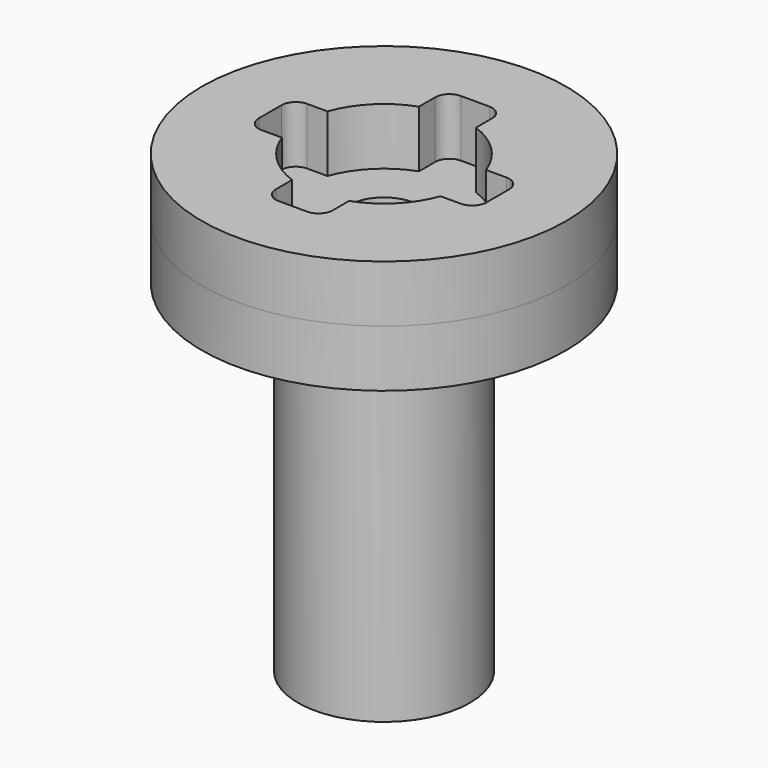
from build123d import *

# Parameters (mm, degrees)
F0_R     = 40.64
F1_DEPTH = 12.7
F0_R_2   = 7.9375
F2_DEPTH = 12.7
F3_R     = 19.177
F3_R_2   = 16.637
F4_DEPTH = 76.2


with BuildPart() as f1:
    # F0 (on Top) → F1 (new body)
    with BuildSketch(Plane.XY):
        Circle(F0_R)
        with BuildLine():
            ThreePointArc((6.35, 17.6908766318), (13.2907790592, 13.2907790592), (17.6908766318, 6.35))
            Line((17.6908766318, 6.35), (22.225, 6.35))
            ThreePointArc((22.225, 6.35), (24.4700640303, 5.4200640303), (25.4, 3.175))
            Line((25.4, 3.175), (25.4, -3.175))
            ThreePointArc((25.4, -3.175), (24.4700640303, -5.4200640303), (22.225, -6.35))
            Line((22.225, -6.35), (17.6908766318, -6.35))
            ThreePointArc((17.6908766318, -6.35), (13.2907790592, -13.2907790592), (6.35, -17.6908766318))
            Line((6.35, -17.6908766318), (6.35, -22.225))
            ThreePointArc((6.35, -22.225), (5.4200640303, -24.4700640303), (3.175, -25.4))
            Line((3.175, -25.4), (-3.175, -25.4))
            ThreePointArc((-3.175, -25.4), (-5.4200640303, -24.4700640303), (-6.35, -22.225))
            Line((-6.35, -22.225), (-6.35, -17.6908766318))
            ThreePointArc((-6.35, -17.6908766318), (-13.2907790592, -13.2907790592), (-17.6908766318, -6.35))
            Line((-17.6908766318, -6.35), (-22.225, -6.35))
            ThreePointArc((-22.225, -6.35), (-24.4700640303, -5.4200640303), (-25.4, -3.175))
            Line((-25.4, -3.175), (-25.4, 3.175))
            ThreePointArc((-25.4, 3.175), (-24.4700640303, 5.4200640303), (-22.225, 6.35))
            Line((-22.225, 6.35), (-17.6908766318, 6.35))
            ThreePointArc((-17.6908766318, 6.35), (-13.2907790592, 13.2907790592), (-6.35, 17.6908766318))
            Line((-6.35, 17.6908766318), (-6.35, 22.225))
            ThreePointArc((-6.35, 22.225), (-5.4200640303, 24.4700640303), (-3.175, 25.4))
            Line((-3.175, 25.4), (3.175, 25.4))
            ThreePointArc((3.175, 25.4), (5.4200640303, 24.4700640303), (6.35, 22.225))
            Line((6.35, 22.225), (6.35, 17.6908766318))
        make_face(mode=Mode.SUBTRACT)
    extrude(amount=F1_DEPTH)


with BuildPart() as f2:
    # F0 (on Top) → F2 (new body)
    with BuildSketch(Plane.XY):
        Circle(F0_R)
        with BuildLine():
            ThreePointArc((6.35, 17.6908766318), (13.2907790592, 13.2907790592), (17.6908766318, 6.35))
            Line((17.6908766318, 6.35), (22.225, 6.35))
            ThreePointArc((22.225, 6.35), (24.4700640303, 5.4200640303), (25.4, 3.175))
            Line((25.4, 3.175), (25.4, -3.175))
            ThreePointArc((25.4, -3.175), (24.4700640303, -5.4200640303), (22.225, -6.35))
            Line((22.225, -6.35), (17.6908766318, -6.35))
            ThreePointArc((17.6908766318, -6.35), (13.2907790592, -13.2907790592), (6.35, -17.6908766318))
            Line((6.35, -17.6908766318), (6.35, -22.225))
            ThreePointArc((6.35, -22.225), (5.4200640303, -24.4700640303), (3.175, -25.4))
            Line((3.175, -25.4), (-3.175, -25.4))
            ThreePointArc((-3.175, -25.4), (-5.4200640303, -24.4700640303), (-6.35, -22.225))
            Line((-6.35, -22.225), (-6.35, -17.6908766318))
            ThreePointArc((-6.35, -17.6908766318), (-13.2907790592, -13.2907790592), (-17.6908766318, -6.35))
            Line((-17.6908766318, -6.35), (-22.225, -6.35))
            ThreePointArc((-22.225, -6.35), (-24.4700640303, -5.4200640303), (-25.4, -3.175))
            Line((-25.4, -3.175), (-25.4, 3.175))
            ThreePointArc((-25.4, 3.175), (-24.4700640303, 5.4200640303), (-22.225, 6.35))
            Line((-22.225, 6.35), (-17.6908766318, 6.35))
            ThreePointArc((-17.6908766318, 6.35), (-13.2907790592, 13.2907790592), (-6.35, 17.6908766318))
            Line((-6.35, 17.6908766318), (-6.35, 22.225))
            ThreePointArc((-6.35, 22.225), (-5.4200640303, 24.4700640303), (-3.175, 25.4))
            Line((-3.175, 25.4), (3.175, 25.4))
            ThreePointArc((3.175, 25.4), (5.4200640303, 24.4700640303), (6.35, 22.225))
            Line((6.35, 22.225), (6.35, 17.6908766318))
        make_face(mode=Mode.SUBTRACT)
        Circle(F0_R)
        with BuildLine():
            ThreePointArc((6.35, 17.6908766318), (13.2907790592, 13.2907790592), (17.6908766318, 6.35))
            Line((17.6908766318, 6.35), (22.225, 6.35))
            ThreePointArc((22.225, 6.35), (24.4700640303, 5.4200640303), (25.4, 3.175))
            Line((25.4, 3.175), (25.4, -3.175))
            ThreePointArc((25.4, -3.175), (24.4700640303, -5.4200640303), (22.225, -6.35))
            Line((22.225, -6.35), (17.6908766318, -6.35))
            ThreePointArc((17.6908766318, -6.35), (13.2907790592, -13.2907790592), (6.35, -17.6908766318))
            Line((6.35, -17.6908766318), (6.35, -22.225))
            ThreePointArc((6.35, -22.225), (5.4200640303, -24.4700640303), (3.175, -25.4))
            Line((3.175, -25.4), (-3.175, -25.4))
            ThreePointArc((-3.175, -25.4), (-5.4200640303, -24.4700640303), (-6.35, -22.225))
            Line((-6.35, -22.225), (-6.35, -17.6908766318))
            ThreePointArc((-6.35, -17.6908766318), (-13.2907790592, -13.2907790592), (-17.6908766318, -6.35))
            Line((-17.6908766318, -6.35), (-22.225, -6.35))
            ThreePointArc((-22.225, -6.35), (-24.4700640303, -5.4200640303), (-25.4, -3.175))
            Line((-25.4, -3.175), (-25.4, 3.175))
            ThreePointArc((-25.4, 3.175), (-24.4700640303, 5.4200640303), (-22.225, 6.35))
            Line((-22.225, 6.35), (-17.6908766318, 6.35))
            ThreePointArc((-17.6908766318, 6.35), (-13.2907790592, 13.2907790592), (-6.35, 17.6908766318))
            Line((-6.35, 17.6908766318), (-6.35, 22.225))
            ThreePointArc((-6.35, 22.225), (-5.4200640303, 24.4700640303), (-3.175, 25.4))
            Line((-3.175, 25.4), (3.175, 25.4))
            ThreePointArc((3.175, 25.4), (5.4200640303, 24.4700640303), (6.35, 22.225))
            Line((6.35, 22.225), (6.35, 17.6908766318))
        make_face(mode=Mode.SUBTRACT)
        with BuildLine():
            ThreePointArc((17.6908766318, -6.35), (18.5176582371, -3.2227239123), (18.796, 0))
            ThreePointArc((18.796, 0), (18.5176582371, 3.2227239123), (17.6908766318, 6.35))
            ThreePointArc((17.6908766318, 6.35), (13.2907790592, 13.2907790592), (6.35, 17.6908766318))
            ThreePointArc((6.35, 17.6908766318), (0, 18.796), (-6.35, 17.6908766318))
            ThreePointArc((-6.35, 17.6908766318), (-13.2907790592, 13.2907790592), (-17.6908766318, 6.35))
            ThreePointArc((-17.6908766318, 6.35), (-18.796, 0), (-17.6908766318, -6.35))
            ThreePointArc((-17.6908766318, -6.35), (-13.2907790592, -13.2907790592), (-6.35, -17.6908766318))
            ThreePointArc((-6.35, -17.6908766318), (0, -18.796), (6.35, -17.6908766318))
            ThreePointArc((6.35, -17.6908766318), (13.2907790592, -13.2907790592), (17.6908766318, -6.35))
        make_face()
        Circle(F0_R_2, mode=Mode.SUBTRACT)
        with BuildLine():
            ThreePointArc((-17.6908766318, -6.35), (-18.796, 0), (-17.6908766318, 6.35))
            Line((-17.6908766318, 6.35), (-22.225, 6.35))
            ThreePointArc((-22.225, 6.35), (-24.4700640303, 5.4200640303), (-25.4, 3.175))
            Line((-25.4, 3.175), (-25.4, -3.175))
            ThreePointArc((-25.4, -3.175), (-24.4700640303, -5.4200640303), (-22.225, -6.35))
            Line((-22.225, -6.35), (-17.6908766318, -6.35))
        make_face()
        with BuildLine():
            ThreePointArc((17.6908766318, 6.35), (18.5176582371, 3.2227239123), (18.796, 0))
            ThreePointArc((18.796, 0), (18.5176582371, -3.2227239123), (17.6908766318, -6.35))
            Line((17.6908766318, -6.35), (22.225, -6.35))
            ThreePointArc((22.225, -6.35), (24.4700640303, -5.4200640303), (25.4, -3.175))
            Line((25.4, -3.175), (25.4, 3.175))
            ThreePointArc((25.4, 3.175), (24.4700640303, 5.4200640303), (22.225, 6.35))
            Line((22.225, 6.35), (17.6908766318, 6.35))
        make_face()
        with BuildLine():
            Line((6.35, -22.225), (6.35, -17.6908766318))
            ThreePointArc((6.35, -17.6908766318), (0, -18.796), (-6.35, -17.6908766318))
            Line((-6.35, -17.6908766318), (-6.35, -22.225))
            ThreePointArc((-6.35, -22.225), (-5.4200640303, -24.4700640303), (-3.175, -25.4))
            Line((-3.175, -25.4), (3.175, -25.4))
            ThreePointArc((3.175, -25.4), (5.4200640303, -24.4700640303), (6.35, -22.225))
        make_face()
        with BuildLine():
            ThreePointArc((-6.35, 17.6908766318), (0, 18.796), (6.35, 17.6908766318))
            Line((6.35, 17.6908766318), (6.35, 22.225))
            ThreePointArc((6.35, 22.225), (5.4200640303, 24.4700640303), (3.175, 25.4))
            Line((3.175, 25.4), (-3.175, 25.4))
            ThreePointArc((-3.175, 25.4), (-5.4200640303, 24.4700640303), (-6.35, 22.225))
            Line((-6.35, 22.225), (-6.35, 17.6908766318))
        make_face()
    extrude(amount=-F2_DEPTH)

    # F3 (on face) → F4 (join)
    with BuildSketch(Plane(origin=(0, 0, -12.7), x_dir=(1, 0, 0), z_dir=(0, 0, -1))):
        Circle(F3_R)
        Circle(F3_R_2, mode=Mode.SUBTRACT)
    extrude(amount=F4_DEPTH)


solid = Compound([f1.part, f2.part])
